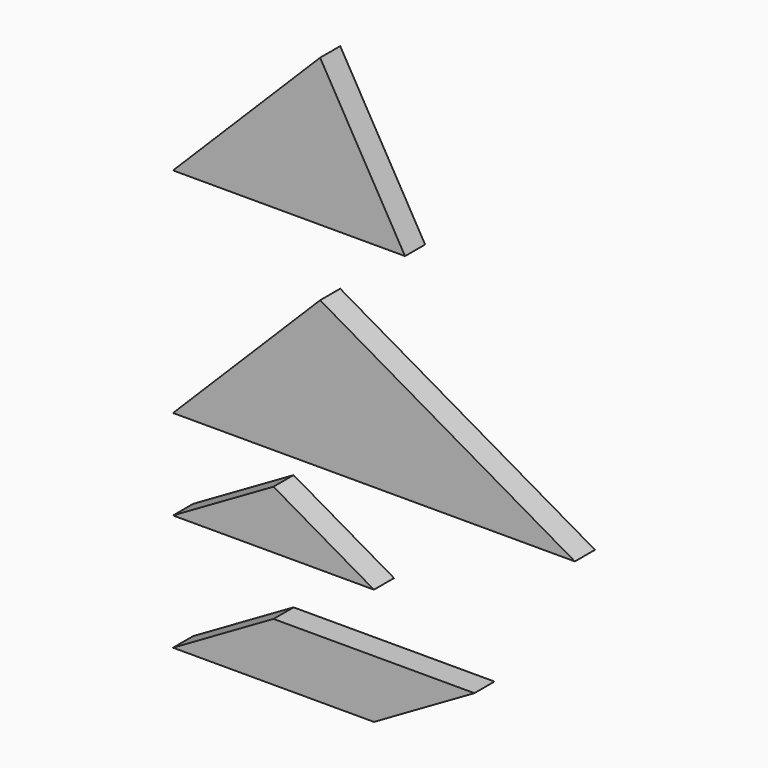
from build123d import *

# Parameters (mm, degrees)
F1_DEPTH = 3.175
F2_DEPTH = 3.175
F3_DEPTH = 3.175
F4_DEPTH = 3.175


with BuildPart() as f1:
    # F0 (on Front) → F1 (new body)
    with BuildSketch(Plane.XZ):
        Polygon((-51.288526, -1.580715), (-69.882616, -20.174805), (-19.082616, -20.174805), align=None)
    extrude(amount=F1_DEPTH)


with BuildPart() as f2:
    # F0 (on Front) → F2 (new body)
    with BuildSketch(Plane.XZ):
        Polygon((-57.182616, -24.245898), (-69.882616, -31.578247), (-44.482616, -31.578247), align=None)
    extrude(amount=F2_DEPTH)


with BuildPart() as f3:
    # F0 (on Front) → F3 (new body)
    with BuildSketch(Plane.XZ):
        Polygon((-57.182616, -38.963026), (-69.882616, -46.295375), (-44.482616, -46.295375), (-31.782616, -38.963026), align=None)
    extrude(amount=F3_DEPTH)


with BuildPart() as f4:
    # F0 (on Front) → F4 (new body)
    with BuildSketch(Plane.XZ):
        Polygon((-51.288526, 25.414865), (-69.882616, 6.820775), (-40.553223, 6.820775), align=None)
    extrude(amount=F4_DEPTH)


solid = Compound([f1.part, f2.part, f3.part, f4.part])
